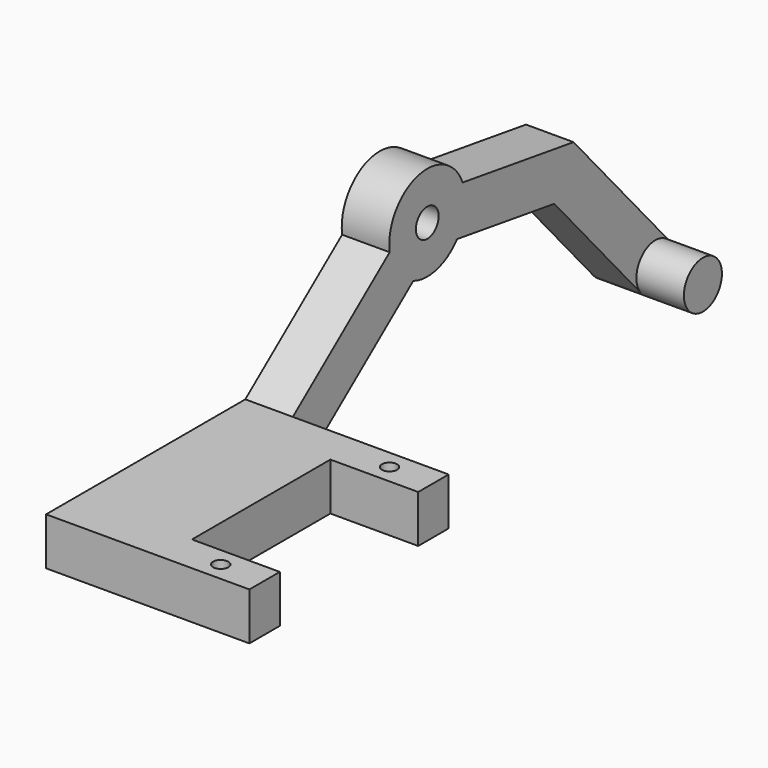
from build123d import *

# Parameters (mm, degrees)
F0_R     = 1.905
F1_DEPTH = 6.35
F2_R     = 3.175
F3_DEPTH = 6.35
F4_W     = 33.274
F4_H     = 6.35
F5_DEPTH = 9.08304
F6_W     = 5.08
F6_H     = 6.35
F7_DEPTH = 11.7348
F8_R     = 1.016
F9_DEPTH = 6.35


with BuildPart() as f1:
    # F0 (on Right) → F1 (new body)
    with BuildSketch(Plane.YZ):
        with BuildLine():
            Line((0, 6.35), (0, 0))
            Line((0, 0), (35.482188, 0))
            Line((35.482188, 0), (53.384841, 14.163968))
            ThreePointArc((53.384841, 14.163968), (57.36122, 13.929732), (60.694788, 16.110049))
            Line((60.694788, 16.110049), (76.933658, 13.673165))
            Line((76.933658, 13.673165), (91.448403, -2.752631))
            ThreePointArc((91.448403, -2.752631), (95.929991, -3.029437), (96.206797, 1.452151))
            Line((96.206797, 1.452151), (80.161637, 19.60986))
            Line((80.161637, 19.60986), (61.637148, 22.389735))
            ThreePointArc((61.637148, 22.389735), (54.09398, 26.202268), (49.444911, 19.143872))
            Line((49.444911, 19.143872), (33.274, 6.35))
            Line((33.274, 6.35), (0, 6.35))
        make_face()
        with Locations((55.7276, 20.066)):
            Circle(F0_R, mode=Mode.SUBTRACT)
    extrude(amount=F1_DEPTH)

    # F2 (on face) → F3 (join)
    with BuildSketch(Plane.YZ.offset(6.35)):
        with Locations((93.8276, -0.65024)):
            Circle(F2_R)
    extrude(amount=F3_DEPTH)

    # F4 (on face) → F5 (join)
    with BuildSketch(Plane.YZ.offset(6.35)):
        with Locations((16.637, 3.175)):
            Rectangle(F4_W, F4_H)
    extrude(amount=F5_DEPTH)

    # F6 (on face) → F7 (join)
    with BuildSketch(Plane.YZ.offset(15.43304)):
        with Locations((2.54, 3.175)):
            Rectangle(F6_W, F6_H)
        with Locations((30.734, 3.175)):
            Rectangle(F6_W, F6_H)
    extrude(amount=F7_DEPTH)

    # F8 (on face) → F9 (cut, through all)
    with BuildSketch(Plane.XY.offset(6.35)):
        with Locations((21.30044, 30.734)):
            Circle(F8_R)
        with Locations((21.30044, 2.54)):
            Circle(F8_R)
    extrude(amount=-F9_DEPTH, mode=Mode.SUBTRACT)


solid = f1.part
